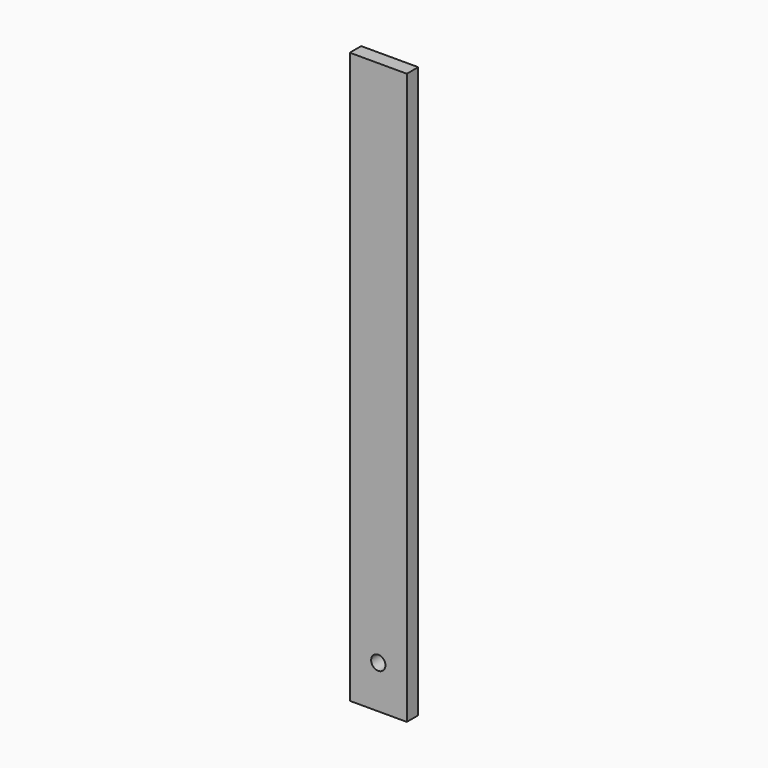
from build123d import *

# Parameters (mm, degrees)
BOX_W        = 20
BOX_H        = 5
BOX_DEPTH    = 200
SKETCH_R     = 2.5
POCKET_DEPTH = 5


with BuildPart() as part:
    # Box → Box (new body)
    with BuildSketch(Plane.XY):
        with Locations((10, 2.5)):
            Rectangle(BOX_W, BOX_H)
    extrude(amount=BOX_DEPTH)

    # Sketch (on Face3 of Box) → Pocket (cut)
    with BuildSketch(Plane.XZ):
        with Locations((10, 15)):
            Circle(SKETCH_R)
    extrude(amount=-POCKET_DEPTH, mode=Mode.SUBTRACT)


solid = part.part
